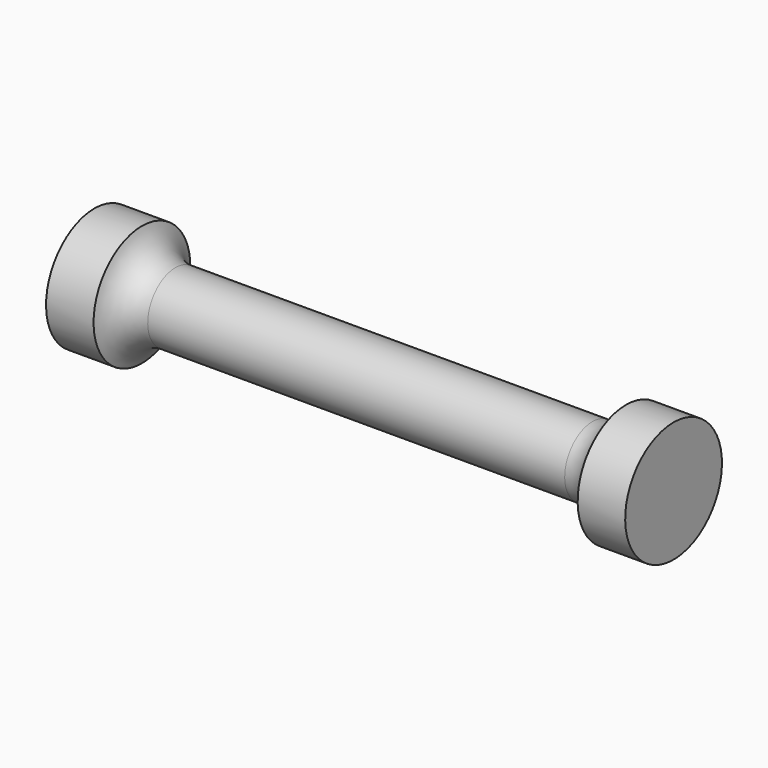
from build123d import *


with BuildPart() as f1:
    # F0 (on Front) → F1 (revolve)
    with BuildSketch(Plane.XZ):
        with BuildLine():
            Line((18, 3), (0, 3))
            Line((0, 3), (-18, 3))
            ThreePointArc((-18, 3), (-19.825295, 3.619181), (-20.897131, 5.221135))
            Line((-20.897131, 5.221135), (-25, 5.221135))
            Line((-25, 5.221135), (-25, 0))
            Line((-25, 0), (0, 0))
            Line((0, 0), (25, 0))
            Line((25, 0), (25, 5.221135))
            Line((25, 5.221135), (20.897131, 5.221135))
            ThreePointArc((20.897131, 5.221135), (19.825295, 3.619181), (18, 3))
        make_face()
    revolve(axis=Axis((-12.5, 0, 0), (1, 0, 0)))


solid = f1.part
